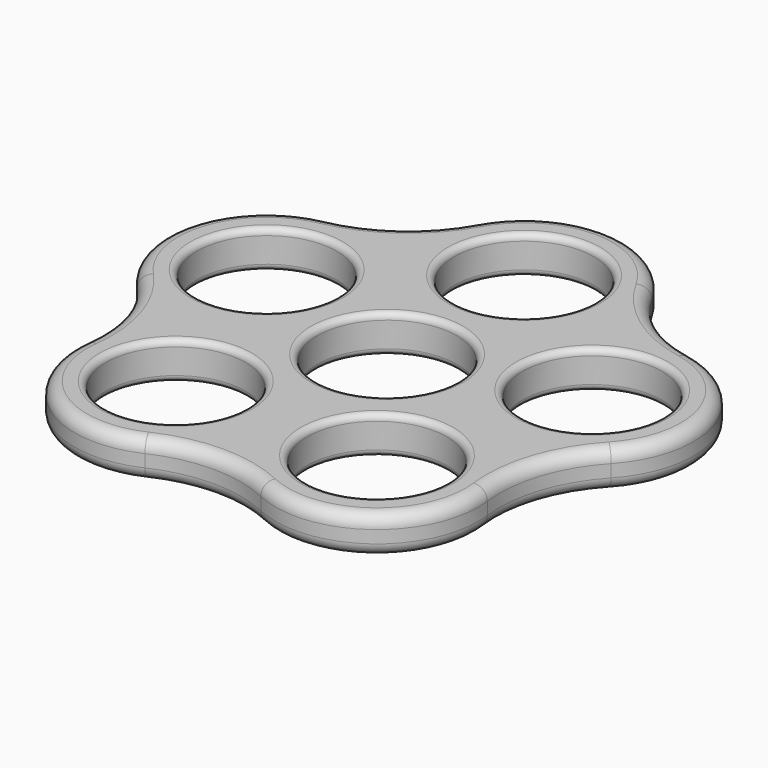
from build123d import *

# Parameters (mm, degrees)
F0_R     = 11.1
F1_DEPTH = 6
F2_R     = 2
F3_R     = 1


with BuildPart() as f1:
    # F0 (on Top) → F1 (new body)
    with BuildSketch(Plane.XY):
        with BuildLine():
            ThreePointArc((28.961875, 24.205341), (20.32095, 27.969388), (14.070936, 35.024242))
            ThreePointArc((14.070936, 35.024242), (0, 43.3), (-14.070936, 35.024242))
            ThreePointArc((-14.070936, 35.024242), (-20.32095, 27.969388), (-28.961875, 24.205341))
            ThreePointArc((-28.961875, 24.205341), (-41.180747, 13.380436), (-37.658192, -2.559169))
            ThreePointArc((-37.658192, -2.559169), (-32.879988, -10.683356), (-31.970359, -20.064518))
            ThreePointArc((-31.970359, -20.064518), (-25.451101, -35.030436), (-9.203107, -36.605896))
            ThreePointArc((-9.203107, -36.605896), (0, -34.572065), (9.203107, -36.605896))
            ThreePointArc((9.203107, -36.605896), (25.451101, -35.030436), (31.970359, -20.064518))
            ThreePointArc((31.970359, -20.064518), (32.879988, -10.683356), (37.658192, -2.559169))
            ThreePointArc((37.658192, -2.559169), (41.180747, 13.380436), (28.961875, 24.205341))
        make_face()
        with Locations((-15.987759, -22.005262)):
            Circle(F0_R, mode=Mode.SUBTRACT)
        with Locations((15.987759, -22.005262)):
            Circle(F0_R, mode=Mode.SUBTRACT)
        Circle(F0_R, mode=Mode.SUBTRACT)
        with Locations((-25.868737, 8.405262)):
            Circle(F0_R, mode=Mode.SUBTRACT)
        with Locations((25.868737, 8.405262)):
            Circle(F0_R, mode=Mode.SUBTRACT)
        with Locations((0, 27.2)):
            Circle(F0_R, mode=Mode.SUBTRACT)
    extrude(amount=F1_DEPTH)

    # F2
    f2_edges = [f1.edges().sort_by_distance(p)[0] for p in [
        (-41.180747, 13.380436, 6),
        (0, -34.572065, 0),
    ]]
    fillet(f2_edges, radius=F2_R)

    # F3
    f3_edges = [f1.edges().sort_by_distance(p)[0] for p in [
        (-36.968737, 8.405262, 6),
        (-11.1, 27.2, 6),
        (-11.1, 0, 6),
        (14.768737, 8.405262, 6),
        (4.887759, -22.005262, 6),
        (-27.087759, -22.005262, 6),
        (4.887759, -22.005262, 0),
        (-11.1, 0, 0),
        (14.768737, 8.405262, 0),
        (-11.1, 27.2, 0),
        (-36.968737, 8.405262, 0),
        (-27.087759, -22.005262, 0),
    ]]
    fillet(f3_edges, radius=F3_R)


solid = f1.part
